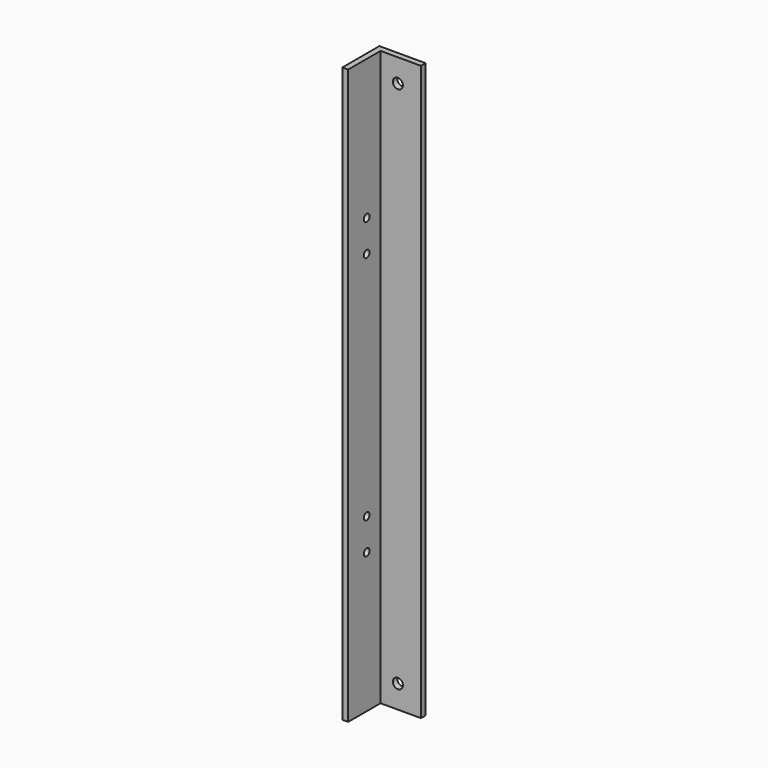
from build123d import *

# Parameters (mm, degrees)
F1_DEPTH = 631.825
F2_R     = 5.55625
F3_DEPTH = 6.351
F4_R     = 3.96875
F5_DEPTH = 50.801


with BuildPart() as f1:
    # F0 (on Top) → F1 (new body)
    with BuildSketch(Plane.XY):
        Polygon((50.8, 0), (0, 0), (0, -50.8), (6.35, -50.8), (6.35, -6.35), (50.8, -6.35), align=None)
    extrude(amount=F1_DEPTH)

    # F2 (on face) → F3 (cut, through all)
    with BuildSketch(Plane.XZ.offset(6.35)):
        with Locations((25.4, 606.425)):
            Circle(F2_R)
        with Locations((25.4, 25.4)):
            Circle(F2_R)
    extrude(amount=-F3_DEPTH, mode=Mode.SUBTRACT)

    # F4 (on face) → F5 (cut, through all)
    with BuildSketch(Plane(origin=(0, 0, 0), x_dir=(0, -1, 0), z_dir=(-1, 0, 0))):
        with Locations((25.4, 477.8375)):
            Circle(F4_R)
        with Locations((25.4, 153.9875)):
            Circle(F4_R)
        with Locations((25.4, 188.9125)):
            Circle(F4_R)
        with Locations((25.4, 442.9125)):
            Circle(F4_R)
    extrude(amount=-F5_DEPTH, mode=Mode.SUBTRACT)


solid = f1.part
